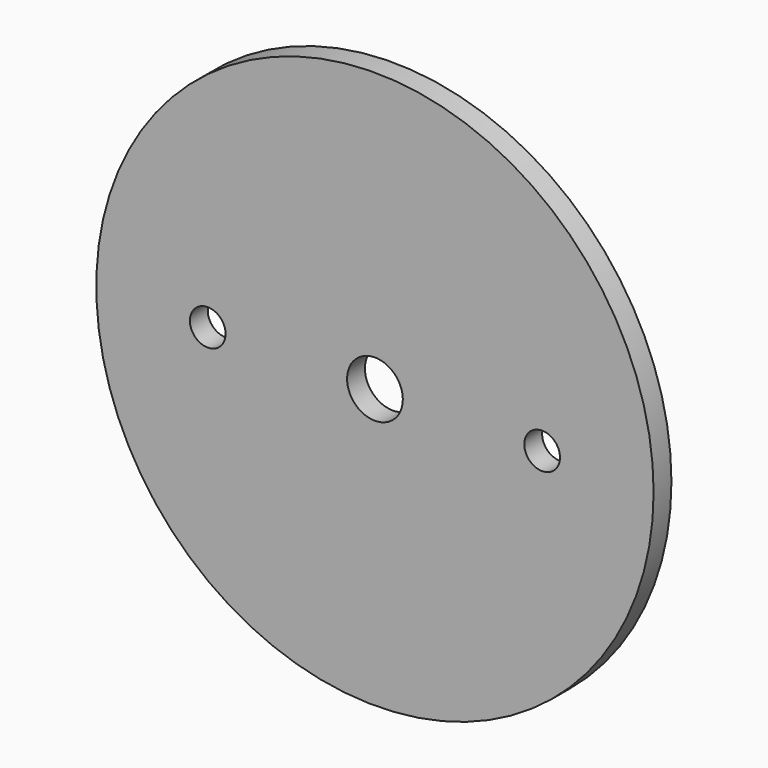
from build123d import *

# Parameters (mm, degrees)
F0_R     = 25
F0_R_2   = 1.6
F0_R_3   = 2.5
F1_DEPTH = 2


with BuildPart() as f1:
    # F0 (on Front) → F1 (new body)
    with BuildSketch(Plane.XZ):
        Circle(F0_R)
        with Locations((-15, 0)):
            Circle(F0_R_2, mode=Mode.SUBTRACT)
        Circle(F0_R_3, mode=Mode.SUBTRACT)
        with Locations((15, 0)):
            Circle(F0_R_2, mode=Mode.SUBTRACT)
    extrude(amount=F1_DEPTH)


solid = f1.part
